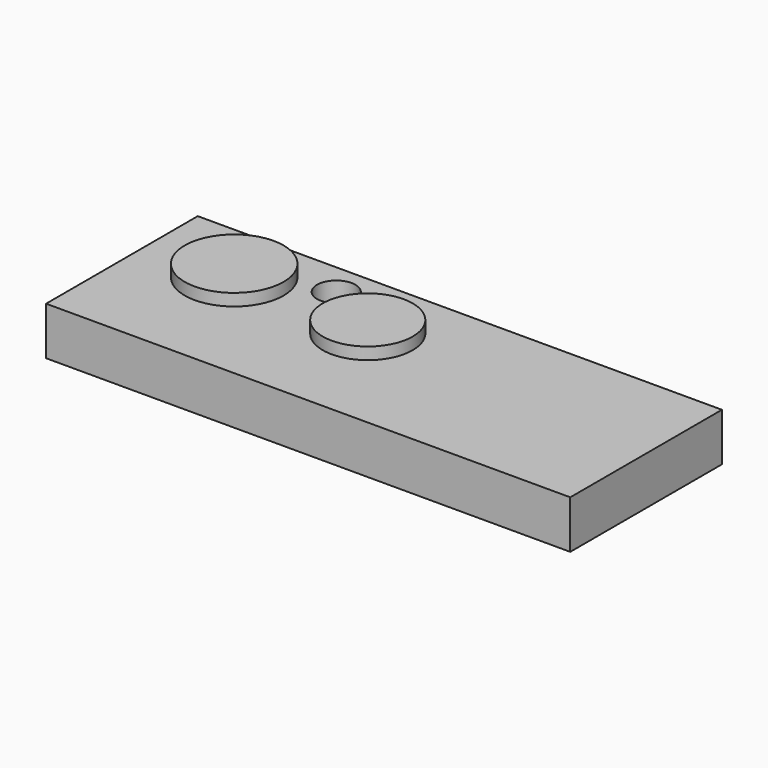
from build123d import *

# Parameters (mm, degrees)
F0_W     = 87.283637
F0_H     = 31.570678
F0_R     = 3.203275
F1_DEPTH = 8
F3_R     = 8.230978
F3_R_2   = 7.493207
F4_DEPTH = 2


with BuildPart() as f1:
    # F0 (on Top) → F1 (new body)
    with BuildSketch(Plane.XY):
        with Locations((-23.523251, 12.2259)):
            Rectangle(F0_W, F0_H)
        with Locations((-57.694785, 22.931494)):
            Circle(F0_R, mode=Mode.SUBTRACT)
        with Locations((-39.781764, 22.608737)):
            Circle(F0_R, mode=Mode.SUBTRACT)
    extrude(amount=F1_DEPTH)

    # F3 (on offset) → F4 (join)
    with BuildSketch(Plane.XY.offset(8)):
        with Locations((-52.703097, 17.516926)):
            Circle(F3_R)
        with Locations((-29.245649, 15.993714)):
            Circle(F3_R_2)
    extrude(amount=F4_DEPTH)


solid = f1.part
